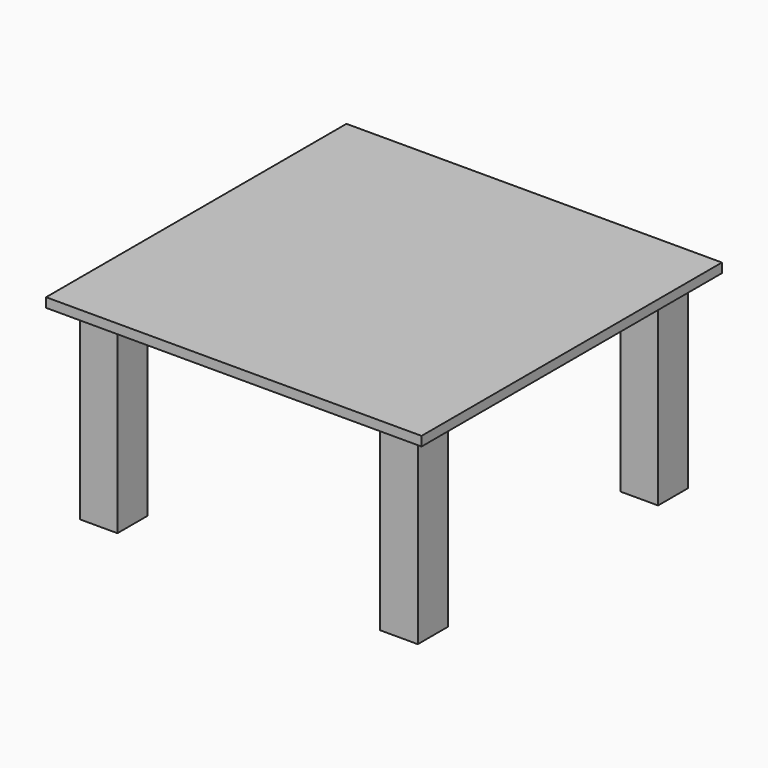
from build123d import *

# Parameters (mm, degrees)
BOX001_W     = 20
BOX001_H     = 20
BOX001_DEPTH = 101
BOX002_W     = 20
BOX002_H     = 20
BOX002_DEPTH = 101
BOX003_W     = 20
BOX003_H     = 20
BOX003_DEPTH = 101
BOX004_W     = 20
BOX004_H     = 20
BOX004_DEPTH = 101
BOX_W        = 200
BOX_H        = 200
BOX_DEPTH    = 5


with BuildPart() as obj1:
    # Box001 → Box001 (new body)
    with BuildSketch(Plane(origin=(10, 10, -100), x_dir=(1, 0, 0), z_dir=(0, 0, 1))):
        with Locations((10, 10)):
            Rectangle(BOX001_W, BOX001_H)
    extrude(amount=BOX001_DEPTH)


with BuildPart() as box002:
    # Box002 → Box002 (new body)
    with BuildSketch(Plane(origin=(170, 10, -100), x_dir=(1, 0, 0), z_dir=(0, 0, 1))):
        with Locations((10, 10)):
            Rectangle(BOX002_W, BOX002_H)
    extrude(amount=BOX002_DEPTH)


with BuildPart() as box003:
    # Box003 → Box003 (new body)
    with BuildSketch(Plane(origin=(10, 170, -100), x_dir=(1, 0, 0), z_dir=(0, 0, 1))):
        with Locations((10, 10)):
            Rectangle(BOX003_W, BOX003_H)
    extrude(amount=BOX003_DEPTH)


with BuildPart() as box004:
    # Box004 → Box004 (new body)
    with BuildSketch(Plane(origin=(170, 170, -100), x_dir=(1, 0, 0), z_dir=(0, 0, 1))):
        with Locations((10, 10)):
            Rectangle(BOX004_W, BOX004_H)
    extrude(amount=BOX004_DEPTH)


with BuildPart() as mesa:
    # Box → Box (new body)
    with BuildSketch(Plane.XY):
        with Locations((100, 100)):
            Rectangle(BOX_W, BOX_H)
    extrude(amount=BOX_DEPTH)

    # Fusion: union obj1, Box002, Box003, Box004
    add(obj1.part)
    add(box002.part)
    add(box003.part)
    add(box004.part)


solid = mesa.part
